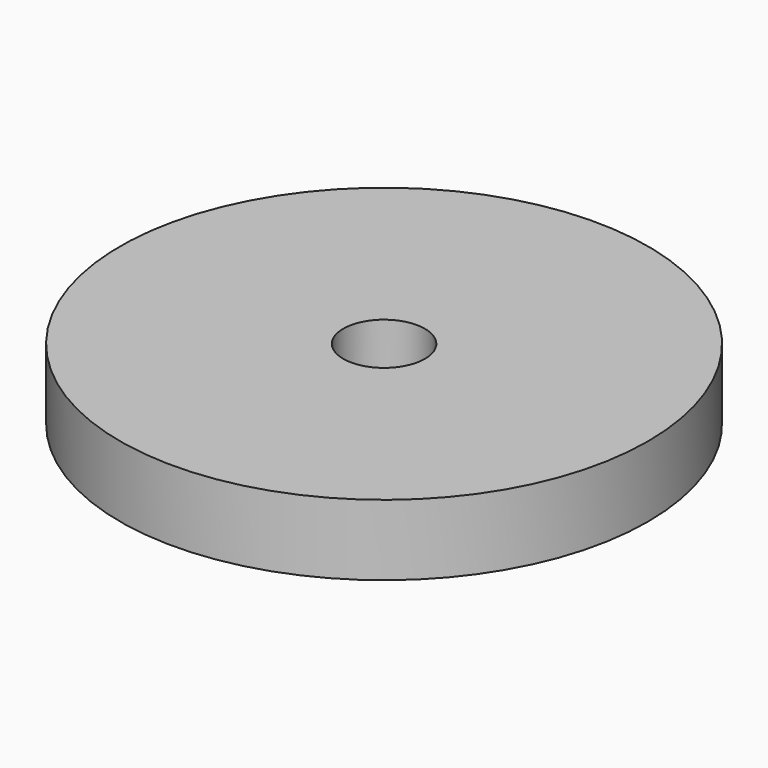
from build123d import *

# Parameters (mm, degrees)
SKETCH_R     = 24.25
PAD_DEPTH    = 6.5
SKETCH003_R  = 5
PAD002_DEPTH = 1
SKETCH004_R  = 3.75
HOLE_DEPTH   = 7.501


with BuildPart() as part:
    # Sketch → Pad (new body)
    with BuildSketch(Plane.XY):
        Circle(SKETCH_R)
    extrude(amount=PAD_DEPTH)

    # Sketch003 → Pad002 (join)
    with BuildSketch(Plane(origin=(0, 0, 0), x_dir=(1, 0, 0), z_dir=(0, 0, -1))):
        Circle(SKETCH003_R)
    extrude(amount=PAD002_DEPTH)

    # Sketch004 (on Face3 of Pad002) → Hole (cut, through all)
    with BuildSketch(Plane.XY.offset(6.5)):
        Circle(SKETCH004_R)
    extrude(amount=-HOLE_DEPTH, mode=Mode.SUBTRACT)


solid = part.part
